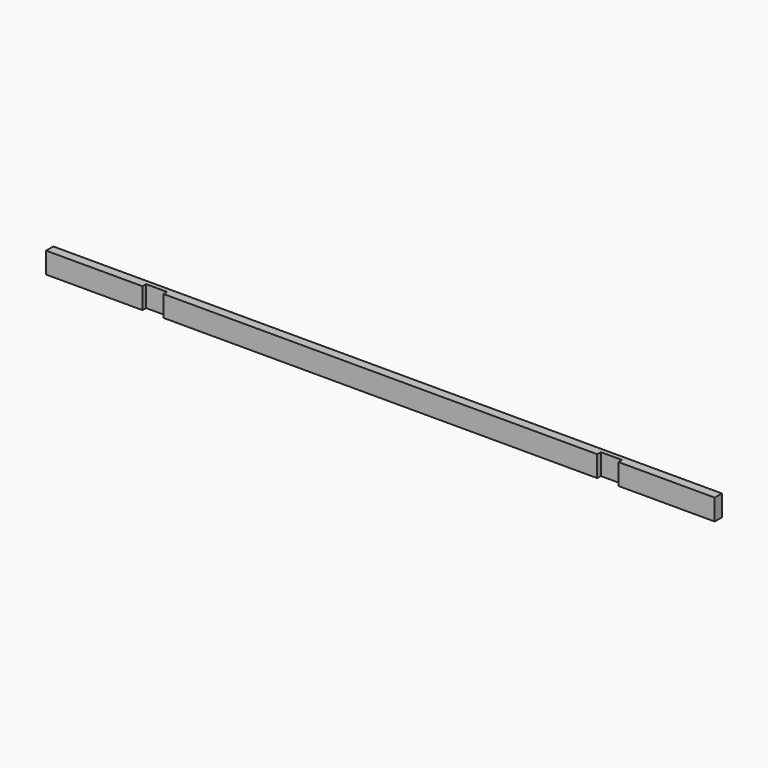
from build123d import *

# Parameters (mm, degrees)
F0_W     = 38.1
F0_H     = 88.9
F1_DEPTH = 1409.7
F2_W     = 88.9
F2_H     = 19.05
F3_DEPTH = 88.9


with BuildPart() as f1:
    # F0 (on Right) → F1 (new body)
    with BuildSketch(Plane.YZ):
        Rectangle(F0_W, F0_H)
    extrude(amount=F1_DEPTH)

    # F2 (on face) → F3 (cut, through all)
    with BuildSketch(Plane.XY.offset(44.45)):
        with Locations((958.85, -9.525)):
            Rectangle(F2_W, F2_H)
    extrude(amount=-F3_DEPTH, mode=Mode.SUBTRACT)

    # F4: F1 across plane


with BuildPart() as f1_1:
    add(f1.part)
    add(f1.part.mirror(Plane.YZ))


solid = f1_1.part
